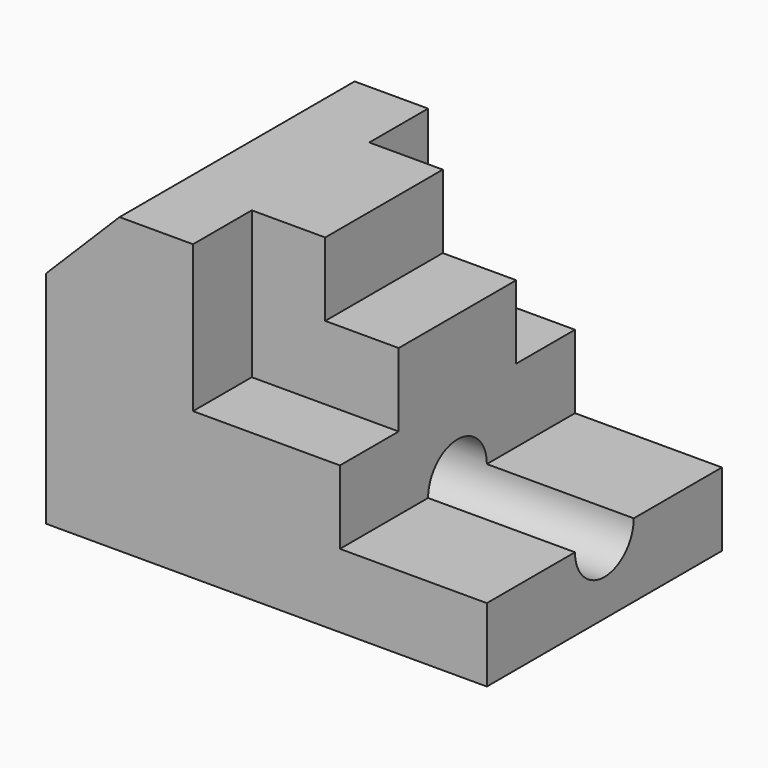
from build123d import *

# Parameters (mm, degrees)
F1_DEPTH = 50.8
F4_DEPTH = 25.4
F5_R     = 6.35
F6_DEPTH = 76.2


with BuildPart() as f1:
    # F0 (on Front) → F1 (new body)
    with BuildSketch(Plane.XZ):
        Polygon((-76.2, 0), (0, 0), (0, 12.7), (-25.4, 12.7), (-25.4, 25.4), (-50.8, 25.4), (-50.8, 50.8), (-63.5, 50.8), (-76.2, 38.1), align=None)
    extrude(amount=F1_DEPTH)

    # F3 (on offset) → F4 (join)
    with BuildSketch(Plane.XZ.offset(38.1)):
        Polygon((-38.1, 50.8), (-50.8, 50.8), (-50.8, 25.4), (-25.4, 25.4), (-25.4, 38.1), (-38.1, 38.1), align=None)
    extrude(amount=-F4_DEPTH)

    # F5 (on face) → F6 (cut)
    with BuildSketch(Plane.YZ):
        with Locations((-25.4, 12.7)):
            Circle(F5_R)
    extrude(amount=-F6_DEPTH, mode=Mode.SUBTRACT)


solid = f1.part
